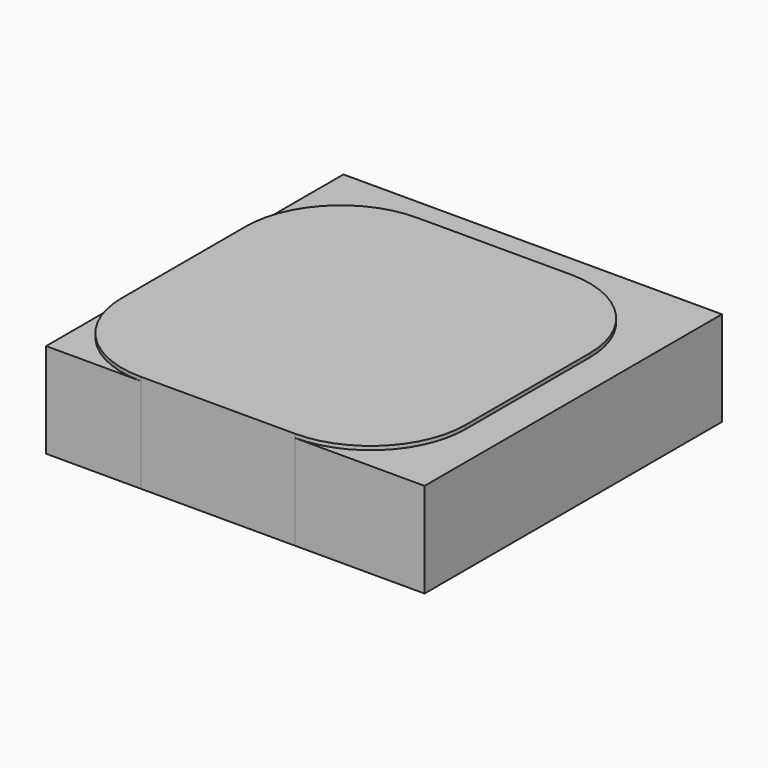
from build123d import *

# Parameters (mm, degrees)
SKETCH_W     = 99.8
SKETCH_H     = 98
PAD_DEPTH    = 25
PAD001_DEPTH = 26


with BuildPart() as body:
    # Sketch → Pad (new body)
    with BuildSketch(Plane.XY):
        with Locations((49.9, 49)):
            Rectangle(SKETCH_W, SKETCH_H)
    extrude(amount=PAD_DEPTH)


with BuildPart() as body001:
    # Sketch001 → Pad001 (new body)
    with BuildSketch(Plane.XY):
        with BuildLine():
            Line((25, 0), (65.6, 0))
            ThreePointArc((65.6, 0), (83.27767, 7.32233), (90.6, 25))
            Line((90.6, 25), (90.6, 65.9))
            ThreePointArc((90.6, 65.9), (83.27767, 83.57767), (65.6, 90.9))
            Line((65.6, 90.9), (25, 90.9))
            ThreePointArc((25, 90.9), (7.32233, 83.57767), (0, 65.9))
            Line((0, 65.9), (0, 25))
            ThreePointArc((0, 25), (7.32233, 7.32233), (25, 0))
        make_face()
    extrude(amount=PAD001_DEPTH)


solid = Compound([body.part, body001.part])
